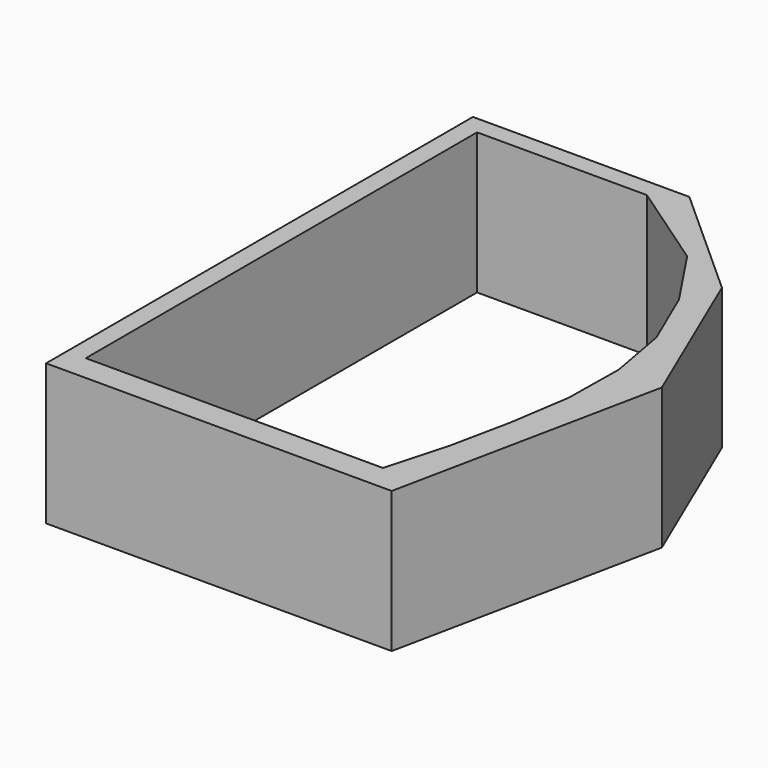
from build123d import *

# Parameters (mm, degrees)
PAD_DEPTH = 16.6


with BuildPart() as part:
    # Sketch → Pad (new body)
    with BuildSketch(Plane.XY):
        Polygon((-2.215162, 59.759811), (-2.215162, -3.075415), (38.48941, -3.075415), (45.010048, 28.539799), (36.908657, 47.508923), (23.274607, 59.759811), align=None)
        Polygon((0, 0), (35, 0), (37, 7.2), (38.5, 14.4), (39.6, 21.6), (39.7, 28.8), (38.4, 36), (35.3, 43.2), (30.5, 50.4), (20, 57.6), (0, 57.6), align=None, mode=Mode.SUBTRACT)
    extrude(amount=PAD_DEPTH)


solid = part.part
